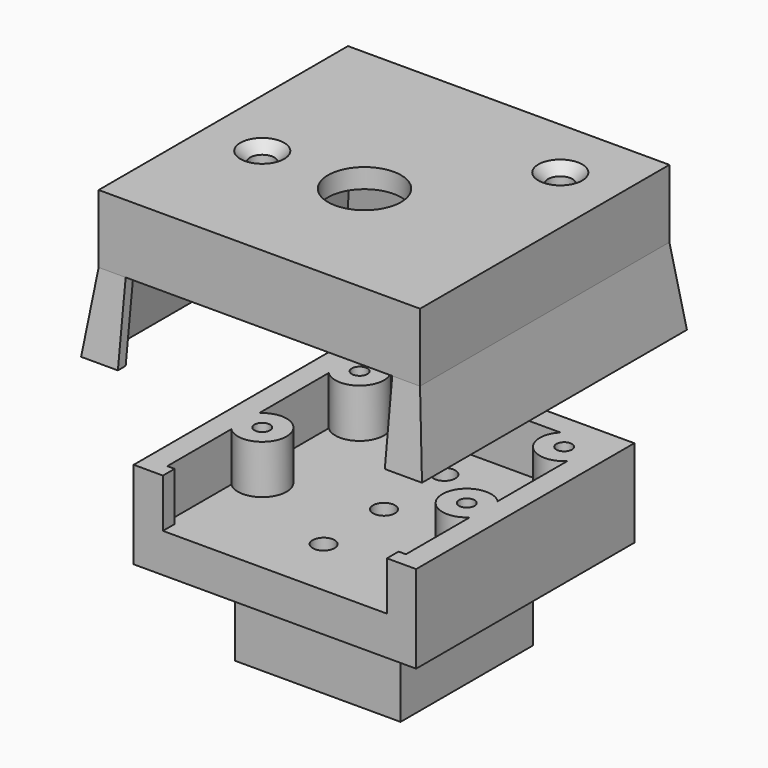
from build123d import *

# Parameters (mm, degrees)
SKETCH_W                = 29
SKETCH_H                = 28
PAD_DEPTH               = 4
PAD001_DEPTH            = 5
SKETCH002_R             = 0.8
HOLE_DEPTH              = 4
HOLE_TIPS_R             = 0.8
SKETCH003_R             = 2.4
PAD002_DEPTH            = 1.25
SKETCH019_R             = 1.125
HOLE004_DEPTH           = 10.251
SKETCH005_W             = 17
SKETCH005_H             = 17
PAD003_DEPTH            = 5
HOLE002_D               = 3.6
HOLE002_DEPTH           = 25
HOLE002_CSINK_D         = 6.1
HOLE002_CSINK_ANGLE     = 90
SKETCH008_W             = 17
SKETCH008_H             = 17
SKETCH008_W_2           = 13
SKETCH008_H_2           = 13
PAD004_DEPTH            = 1
BODY001_PLACEMENT_ANGLE = 180
SKETCH009_W             = 33
SKETCH009_H             = 32
SKETCH009_R             = 3.75
PAD005_DEPTH            = 2
SKETCH010_R             = 2
PAD006_DEPTH            = 4
SKETCH011_R             = 1.25
HOLE003_DEPTH           = 25
SKETCH012_W             = 33
SKETCH012_H             = 32
SKETCH012_W_2           = 29
SKETCH012_H_2           = 28
PAD007_DEPTH            = 5
CHAMFER_SIZE            = 1


with BuildPart() as main_base:
    # Sketch → Pad (new body)
    with BuildSketch(Plane.XY):
        with Locations((14.5, 14)):
            Rectangle(SKETCH_W, SKETCH_H)
    extrude(amount=PAD_DEPTH)

    # Sketch001 (on Face6 of Pad) → Pad001 (join)
    with BuildSketch(Plane.XY.offset(4)):
        with BuildLine():
            Line((0, 28), (29, 28))
            Line((29, 28), (29, 0))
            Line((29, 0), (26, 0))
            Line((26, 1.5), (26, 0))
            Line((26.75, 1.5), (26, 1.5))
            Line((26.75, 9.714643), (26.75, 1.5))
            ThreePointArc((26.75, 13.285357), (22.5, 11.5), (26.75, 9.714643))
            Line((26.75, 13.285357), (26.75, 22.214643))
            ThreePointArc((23.214643, 25.75), (23.232233, 22.232233), (26.75, 22.214643))
            Line((5.785357, 25.75), (23.214643, 25.75))
            ThreePointArc((2.25, 22.214643), (5.767767, 22.232233), (5.785357, 25.75))
            Line((2.25, 13.285357), (2.25, 22.214643))
            ThreePointArc((2.25, 9.714643), (6.5, 11.5), (2.25, 13.285357))
            Line((2.25, 9.714643), (2.25, 1.5))
            Line((2.25, 1.5), (3, 1.5))
            Line((3, 0), (3, 1.5))
            Line((0, 0), (3, 0))
            Line((0, 0), (0, 28))
        make_face()
    extrude(amount=PAD001_DEPTH)

    # Sketch002 (on Face12 of Pad001) → Hole (cut)
    with BuildSketch(Plane.XY.offset(9)):
        with Locations((25, 24)):
            Circle(SKETCH002_R)
        with Locations((25, 11.5)):
            Circle(SKETCH002_R)
        with Locations((4, 11.5)):
            Circle(SKETCH002_R)
        with Locations((4, 24)):
            Circle(SKETCH002_R)
    extrude(amount=-HOLE_DEPTH, mode=Mode.SUBTRACT)

    # Hole tips → Hole tip 1 section 0
    with BuildSketch(Plane.XY.offset(5), mode=Mode.PRIVATE) as hole_tip_1_s0:
        with Locations((25, 24)):
            Circle(HOLE_TIPS_R)
    loft([hole_tip_1_s0.sketch, Vertex(25, 24, 4.519312)], mode=Mode.SUBTRACT)

    # Hole tips → Hole tip 2 section 0
    with BuildSketch(Plane.XY.offset(5), mode=Mode.PRIVATE) as hole_tip_2_s0:
        with Locations((25, 11.5)):
            Circle(HOLE_TIPS_R)
    loft([hole_tip_2_s0.sketch, Vertex(25, 11.5, 4.519312)], mode=Mode.SUBTRACT)

    # Hole tips → Hole tip 3 section 0
    with BuildSketch(Plane.XY.offset(5), mode=Mode.PRIVATE) as hole_tip_3_s0:
        with Locations((4, 11.5)):
            Circle(HOLE_TIPS_R)
    loft([hole_tip_3_s0.sketch, Vertex(4, 11.5, 4.519312)], mode=Mode.SUBTRACT)

    # Hole tips → Hole tip 4 section 0
    with BuildSketch(Plane.XY.offset(5), mode=Mode.PRIVATE) as hole_tip_4_s0:
        with Locations((4, 24)):
            Circle(HOLE_TIPS_R)
    loft([hole_tip_4_s0.sketch, Vertex(4, 24, 4.519312)], mode=Mode.SUBTRACT)

    # Sketch003 (on Face4 of Hole) → Pad002 (join)
    with BuildSketch(Plane(origin=(0, 0, 0), x_dir=(1, 0, 0), z_dir=(0, 0, -1))):
        with Locations((14.5, -6.25)):
            Circle(SKETCH003_R)
        with Locations((14.5, -21.75)):
            Circle(SKETCH003_R)
    extrude(amount=PAD002_DEPTH)

    # Sketch019 (on Face28 of Pad002) → Hole004 (cut, through all)
    with BuildSketch(Plane(origin=(0, 0, -1.25), x_dir=(1, 0, 0), z_dir=(0, 0, -1))):
        with Locations((14.5, -14)):
            Circle(SKETCH019_R)
        with Locations((14.5, -6.25)):
            Circle(SKETCH019_R)
        with Locations((14.5, -21.75)):
            Circle(SKETCH019_R)
    extrude(amount=-HOLE004_DEPTH, mode=Mode.SUBTRACT)


with BuildPart() as obj1:
    # Sketch005 → Pad003 (new body)
    with BuildSketch(Plane.XY):
        with Locations((8.5, 8.5)):
            Rectangle(SKETCH005_W, SKETCH005_H)
    extrude(amount=PAD003_DEPTH)

    # Hole002
    with Locations(Plane.XY.offset(5)):
        with Locations((8.5, 8.5)):
            CounterSinkHole(HOLE002_D / 2, HOLE002_CSINK_D / 2, depth=HOLE002_DEPTH, counter_sink_angle=HOLE002_CSINK_ANGLE)

    # Sketch008 (on Face4 of Hole002) → Pad004 (join)
    with BuildSketch(Plane(origin=(0, 0, 0), x_dir=(1, 0, 0), z_dir=(0, 0, -1))):
        with Locations((8.5, -8.5)):
            Rectangle(SKETCH008_W, SKETCH008_H)
        with Locations((8.5, -8.5)):
            Rectangle(SKETCH008_W_2, SKETCH008_H_2, mode=Mode.SUBTRACT)
    extrude(amount=PAD004_DEPTH)


with BuildPart() as obj1_1:
    # Body001 placement: moved
    add(obj1.part.moved(Location((23, 5.5, -4))).rotate(Axis((23, 5.5, -4), (0, 1, 0)), BODY001_PLACEMENT_ANGLE))


with BuildPart() as deckel:
    # Sketch009 → Pad005 (new body)
    with BuildSketch(Plane.XY):
        with Locations((14.5, 14)):
            Rectangle(SKETCH009_W, SKETCH009_H)
        with Locations((14.5, 11.5)):
            Circle(SKETCH009_R, mode=Mode.SUBTRACT)
    extrude(amount=PAD005_DEPTH)

    # Sketch010 (on Face6 of Pad005) → Pad006 (join)
    with BuildSketch(Plane(origin=(0, 0, 0), x_dir=(1, 0, 0), z_dir=(0, 0, -1))):
        with Locations((25, -23.5)):
            Circle(SKETCH010_R)
        with Locations((4, -11.5)):
            Circle(SKETCH010_R)
    extrude(amount=PAD006_DEPTH)

    # Sketch011 (on Face11 of Pad006) → Hole003 (cut)
    with BuildSketch(Plane(origin=(0, 0, -4), x_dir=(1, 0, 0), z_dir=(0, 0, -1))):
        with Locations((25, -23.5)):
            Circle(SKETCH011_R)
        with Locations((4, -11.5)):
            Circle(SKETCH011_R)
    extrude(amount=-HOLE003_DEPTH, mode=Mode.SUBTRACT)

    # Sketch012 (on Face4 of Hole003) → Pad007 (join)
    with BuildSketch(Plane(origin=(0, 0, 0), x_dir=(1, 0, 0), z_dir=(0, 0, -1))):
        with Locations((14.5, -14)):
            Rectangle(SKETCH012_W, SKETCH012_H)
        with Locations((14.5, -14)):
            Rectangle(SKETCH012_W_2, SKETCH012_H_2, mode=Mode.SUBTRACT)
    extrude(amount=PAD007_DEPTH)

    # Sketch013 (on Face9 of Pad007) → AdditiveLoft section 0
    with BuildSketch(Plane(origin=(0, 0, -5), x_dir=(1, 0, 0), z_dir=(0, 0, -1))):
        Polygon((-2, 2), (-2, -30), (31, -30), (31, 2), (28.147776, 2), (28.147776, 1), (30, 1), (30, -29), (-1, -29), (-1, 1), (0.774787, 1), (0.774787, 2), align=None)
    # Sketch018 → AdditiveLoft section 1
    with BuildSketch(Plane(origin=(0, 0, -13), x_dir=(1, 0, 0), z_dir=(0, 0, -1))):
        Polygon((-3, 3), (-3, -31), (32, -31), (32, 3), (28.182957, 3), (28.182957, 2), (31, 2), (31, -30), (-2, -30), (-2, 2), (0.774787, 2), (0.774787, 3), align=None)
    loft()

    # Chamfer
    chamfer_edges = [deckel.edges().sort_by_distance(p)[0] for p in [
        (26.25, 23.5, 2),
        (5.25, 11.5, 2),
    ]]
    chamfer(chamfer_edges, length=CHAMFER_SIZE)


with BuildPart() as deckel_1:
    # Body002 placement: moved
    add(deckel.part.moved(Location((0, 0, 32))))


solid = Compound([main_base.part, obj1_1.part, deckel_1.part])
